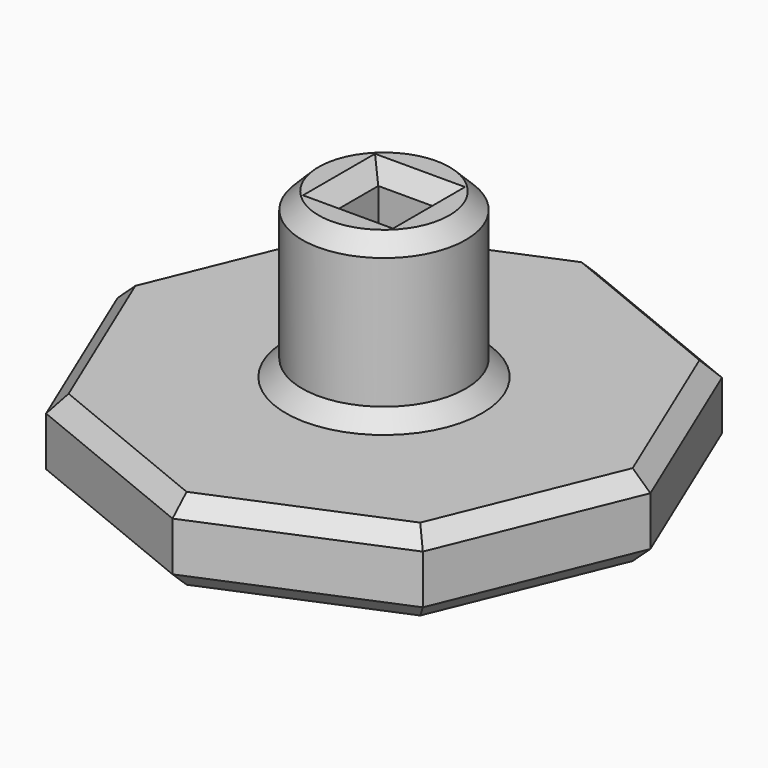
from build123d import *

# Parameters (mm, degrees)
F0_R     = 2
F1_DEPTH = 5
F2_R     = 5
F3_DEPTH = 10
F4_SIZE  = 1


with BuildPart() as f1:
    # F0 (on Top) → F1 (new body)
    with BuildSketch(Plane.XY):
        Polygon((16.2357693204, 0.0607577779), (11.4374603474, 11.523384821), (-0.0607577779, 16.2357693204), (-11.523384821, 11.4374603474), (-16.2357693204, -0.0607577779), (-11.4374603474, -11.523384821), (0.0607577779, -16.2357693204), (11.523384821, -11.4374603474), align=None)
        Circle(F0_R, mode=Mode.SUBTRACT)
    extrude(amount=F1_DEPTH)

    # F2 (on face) → F3 (join)
    with BuildSketch(Plane.XY.offset(5)):
        Circle(F2_R)
        with BuildLine():
            Line((0.9682458366, 1.75), (1.75, 1.75))
            Line((1.75, 1.75), (1.75, 0.9682458366))
            ThreePointArc((1.75, 0.9682458366), (1.9364916731, 0.5), (2, 0))
            ThreePointArc((2, 0), (1.9364916731, -0.5), (1.75, -0.9682458366))
            Line((1.75, -0.9682458366), (1.75, -1.75))
            Line((1.75, -1.75), (0.9682458366, -1.75))
            ThreePointArc((0.9682458366, -1.75), (0, -2), (-0.9682458366, -1.75))
            Line((-0.9682458366, -1.75), (-1.75, -1.75))
            Line((-1.75, -1.75), (-1.75, -0.9682458366))
            ThreePointArc((-1.75, -0.9682458366), (-2, 0), (-1.75, 0.9682458366))
            Line((-1.75, 0.9682458366), (-1.75, 1.75))
            Line((-1.75, 1.75), (-0.9682458366, 1.75))
            ThreePointArc((-0.9682458366, 1.75), (0, 2), (0.9682458366, 1.75))
        make_face(mode=Mode.SUBTRACT)
        with BuildLine():
            Line((-0.9682458366, 1.75), (0.9682458366, 1.75))
            ThreePointArc((0.9682458366, 1.75), (0, 2), (-0.9682458366, 1.75))
        make_face()
        with BuildLine():
            ThreePointArc((2, 0), (1.9364916731, 0.5), (1.75, 0.9682458366))
            Line((1.75, 0.9682458366), (1.75, -0.9682458366))
            ThreePointArc((1.75, -0.9682458366), (1.9364916731, -0.5), (2, 0))
        make_face()
        with BuildLine():
            ThreePointArc((-0.9682458366, -1.75), (0, -2), (0.9682458366, -1.75))
            Line((0.9682458366, -1.75), (-0.9682458366, -1.75))
        make_face()
        with BuildLine():
            Line((-1.75, -0.9682458366), (-1.75, 0.9682458366))
            ThreePointArc((-1.75, 0.9682458366), (-2, 0), (-1.75, -0.9682458366))
        make_face()
    extrude(amount=F3_DEPTH)

    # F4
    f4_edges = [f1.edges().sort_by_distance(p)[0] for p in [
        (-5, 0, 15),
        (0, 1.75, 15),
        (1.75, 0, 15),
        (0, -1.75, 15),
        (-1.75, 0, 15),
        (-5, 0, 5),
        (13.879577, -5.688351, 5),
        (13.836615, 5.792071, 5),
        (5.792071, -13.836615, 5),
        (-5.688351, -13.879577, 5),
        (5.688351, 13.879577, 5),
        (-13.836615, -5.792071, 5),
        (-5.792071, 13.836615, 5),
        (-13.879577, 5.688351, 5),
        (13.879577, -5.688351, 0),
        (13.836615, 5.792071, 0),
        (5.688351, 13.879577, 0),
        (-5.792071, 13.836615, 0),
        (-13.879577, 5.688351, 0),
        (-13.836615, -5.792071, 0),
        (-5.688351, -13.879577, 0),
        (5.792071, -13.836615, 0),
        (-2, 0, 0),
    ]]
    chamfer(f4_edges, length=F4_SIZE)


solid = f1.part
